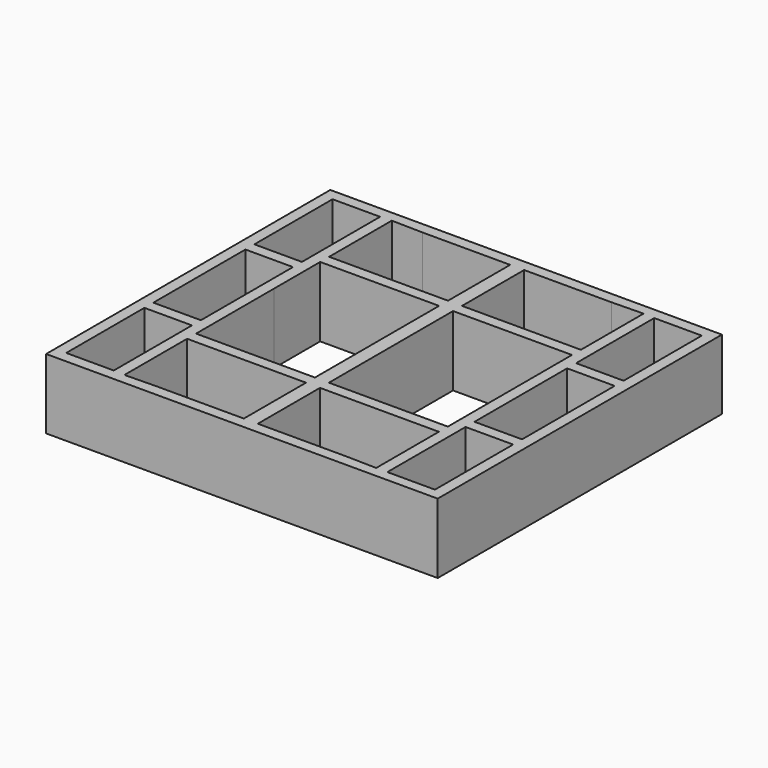
from build123d import *

# Parameters (mm, degrees)
F0_W     = 17.000006
F0_H     = 34.925
F0_W_2   = 17
F1_DEPTH = 25


with BuildPart() as f1:
    # F0 (on Top) → F1 (new body)
    with BuildSketch(Plane.XY):
        Polygon((54.175042, -81.352925), (54.175042, 45.647371), (-85.824958, 45.647357), (-85.824958, -81.352925), align=None)
        with Locations((-73.324955, -59.890378)):
            Rectangle(F0_W, F0_H, mode=Mode.SUBTRACT)
        Polygon((-49.584462, -77.352878), (-60.824958, -77.586921), (-60.824958, -49.586921), (-18.324958, -49.586921), (-18.324958, -61.310325), (-18.324958, -77.352878), align=None, mode=Mode.SUBTRACT)
        Polygon((29.175042, -49.586921), (29.175042, -77.586921), (17.934547, -77.352878), (-13.324958, -77.352878), (-13.324958, -61.310325), (-13.324958, -49.586921), align=None, mode=Mode.SUBTRACT)
        with Locations((41.675042, -60.124421)):
            Rectangle(F0_W_2, F0_H, mode=Mode.SUBTRACT)
        Polygon((29.175042, 9.881367), (29.175042, -10.852675), (29.175042, -24.852878), (29.175042, -45.586921), (-13.324958, -45.586921), (-13.324958, -19.852878), (-13.324958, -15.852675), (-13.324958, 9.881367), align=None, mode=Mode.SUBTRACT)
        Polygon((50.175042, 2.722325), (50.175042, -10.852675), (50.175042, -24.852878), (50.175042, -38.661921), (33.175042, -38.661921), (33.175042, -24.852878), (33.175042, -10.852675), (33.175042, 2.722325), align=None, mode=Mode.SUBTRACT)
        Polygon((-64.824954, 2.722325), (-64.824952, -10.852675), (-64.824952, -24.852878), (-64.824952, -38.427878), (-81.824958, -38.427878), (-81.824958, -24.852878), (-81.824958, -10.852675), (-81.824958, 2.722325), align=None, mode=Mode.SUBTRACT)
        Polygon((-18.324958, 9.881367), (-18.324958, -15.852675), (-18.324958, -19.852878), (-18.324958, -45.586921), (-60.824958, -45.586921), (-60.824958, -24.852878), (-60.824958, -10.852675), (-60.824954, 9.881367), align=None, mode=Mode.SUBTRACT)
        Polygon((-81.824958, 6.722325), (-81.824958, 41.647325), (-64.824957, 41.647325), (-64.824954, 6.722325), align=None, mode=Mode.SUBTRACT)
        Polygon((-60.824955, 13.881367), (-60.824958, 41.881367), (-49.584462, 41.647325), (-18.324958, 41.647325), (-18.324958, 25.604771), (-18.324958, 13.881367), align=None, mode=Mode.SUBTRACT)
        Polygon((17.934547, 41.647325), (29.175042, 41.881367), (29.175042, 13.881367), (-13.324958, 13.881367), (-13.324958, 25.604771), (-13.324958, 41.647325), align=None, mode=Mode.SUBTRACT)
        with Locations((41.675042, 24.184825)):
            Rectangle(F0_W_2, F0_H, mode=Mode.SUBTRACT)
    extrude(amount=F1_DEPTH)


solid = f1.part
